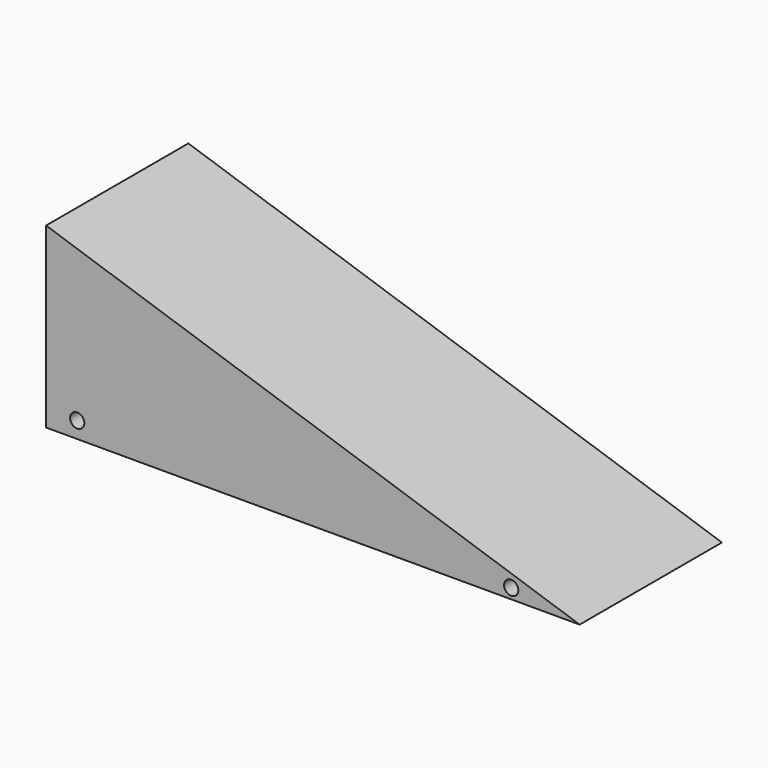
from build123d import *

# Parameters (mm, degrees)
F1_DEPTH = 25.4
F2_R     = 5.715
F3_DEPTH = 17.78
F4_R     = 1.016
F5_DEPTH = 25.4
F6_R     = 1.016
F7_DEPTH = 25.4


with BuildPart() as f1:
    # F0 (on Front) → F1 (new body)
    with BuildSketch(Plane.XZ):
        Polygon((-76.2, 0), (0, 0), (-76.2, 25.4), align=None)
    extrude(amount=F1_DEPTH)

    # F2 (on face) → F3 (cut)
    with BuildSketch(Plane(origin=(-76.2, 0, 0), x_dir=(0, -1, 0), z_dir=(-1, 0, 0))):
        with Locations((12.7, 12.7)):
            Circle(F2_R)
    extrude(amount=-F3_DEPTH, mode=Mode.SUBTRACT)

    # F4 (on face) → F5 (cut)
    with BuildSketch(Plane.XZ.offset(25.4)):
        with Locations((-71.755275, 2.325441)):
            Circle(F4_R)
    extrude(amount=-F5_DEPTH, mode=Mode.SUBTRACT)

    # F6 (on face) → F7 (cut)
    with BuildSketch(Plane.XZ.offset(25.4)):
        with Locations((-9.774557, 1.460582)):
            Circle(F6_R)
    extrude(amount=-F7_DEPTH, mode=Mode.SUBTRACT)


solid = f1.part
